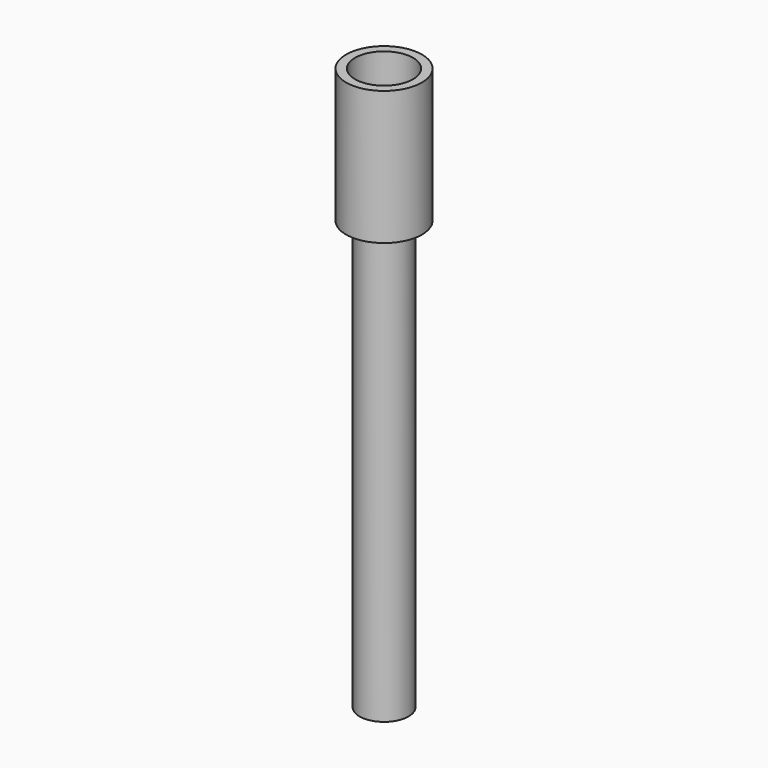
from build123d import *

# Parameters (mm, degrees)
CYLINDER013_R             = 3.25
CYLINDER013_DEPTH         = 12
CYLINDER012_R             = 4.25
CYLINDER012_DEPTH         = 15
CYLINDER014_R             = 2.75
CYLINDER014_DEPTH         = 48
FUSION002_PLACEMENT_ANGLE = 180


with BuildPart() as taladro:
    # Cylinder013 → Cylinder013 (new body)
    with BuildSketch(Plane.XY):
        Circle(CYLINDER013_R)
    extrude(amount=CYLINDER013_DEPTH)


with BuildPart() as cilindro_exterior:
    # Cylinder012 → Cylinder012 (new body)
    with BuildSketch(Plane.XY):
        Circle(CYLINDER012_R)
    extrude(amount=CYLINDER012_DEPTH)

    # Cut004: cut taladro
    add(taladro.part, mode=Mode.SUBTRACT)


with BuildPart() as fusion002:
    # Cylinder014 → Cylinder014 (new body)
    with BuildSketch(Plane.XY.offset(15)):
        Circle(CYLINDER014_R)
    extrude(amount=CYLINDER014_DEPTH)

    # Fusion002: union Cilindro exterior
    add(cilindro_exterior.part)


with BuildPart() as fusion002_1:
    # Fusion002 placement: moved
    add(fusion002.part.moved(Location((41, 43, 52))).rotate(Axis((41, 43, 52), (1, 0, 0)), FUSION002_PLACEMENT_ANGLE))


solid = fusion002_1.part
